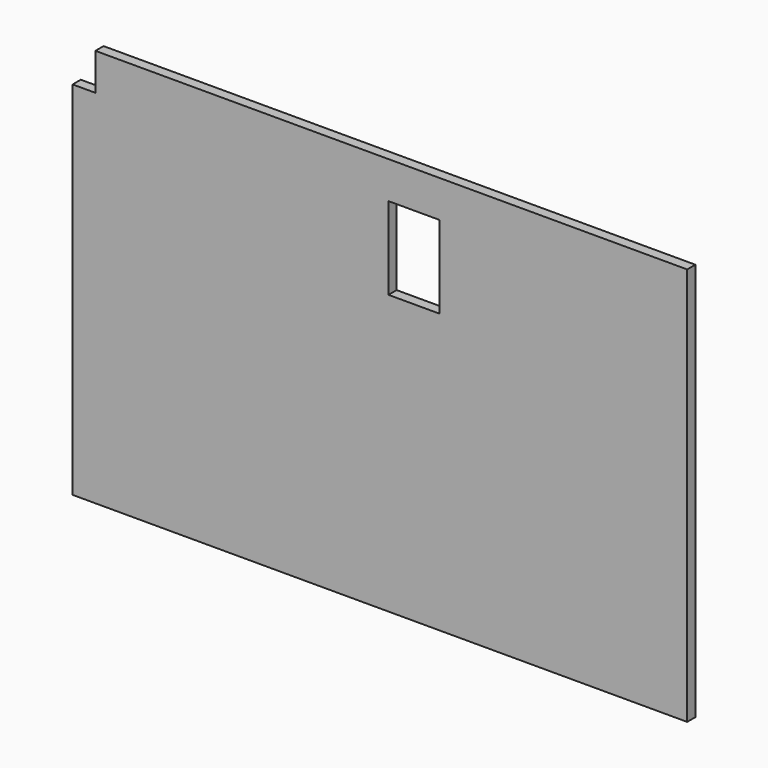
from build123d import *

# Parameters (mm, degrees)
F0_W     = 90
F0_H     = 145
F1_DEPTH = 18


with BuildPart() as f1:
    # F0 (on Front) → F1 (new body)
    with BuildSketch(Plane.XZ):
        Polygon((0, 635), (0, 0), (1080, 0), (1080, 700), (40, 700), (40, 635), align=None)
        with Locations((600, 562.5)):
            Rectangle(F0_W, F0_H, mode=Mode.SUBTRACT)
    extrude(amount=F1_DEPTH)


solid = f1.part
